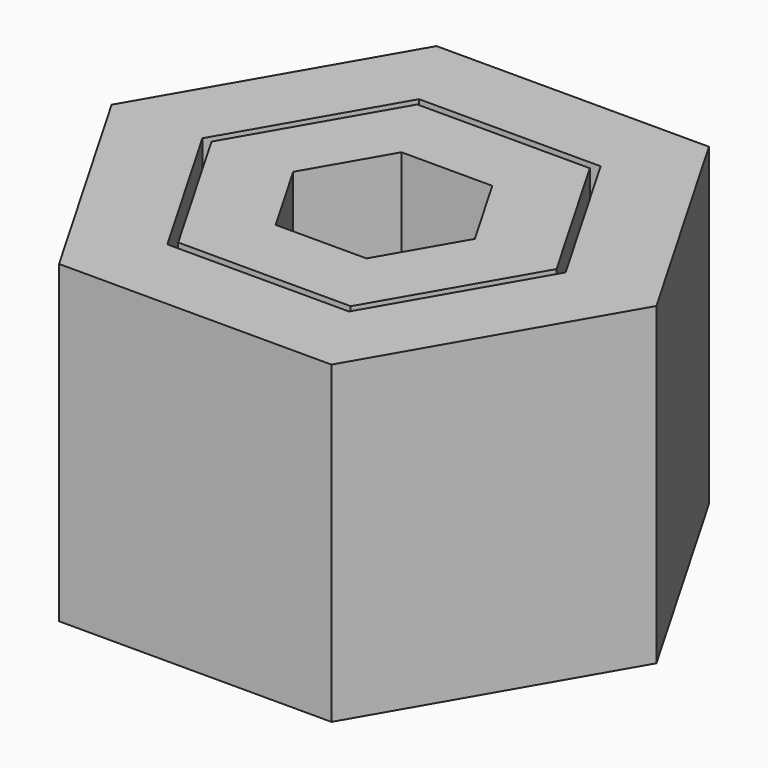
from build123d import *

# Parameters (mm, degrees)
F1_DEPTH = 10


with BuildPart() as f1:
    # F0 (on Top) → F1 (new body)
    with BuildSketch(Plane.XY):
        Polygon((2.7424137787, 4.75), (-2.7424137787, 4.75), (-5.4848275573, 0), (-2.7424137787, -4.75), (2.7424137787, -4.75), (5.4848275573, 0), align=None)
        Polygon((-2.8867513459, 0), (-1.443375673, 2.5), (1.443375673, 2.5), (2.8867513459, 0), (1.443375673, -2.5), (-1.443375673, -2.5), align=None, mode=Mode.SUBTRACT)
    extrude(amount=F1_DEPTH)


with BuildPart() as f1b:
    # F0 (on Top) → F1, piece 2 (new body)
    with BuildSketch(Plane.XY):
        Polygon((4.3301270189, 7.5), (-4.3301270189, 7.5), (-8.6602540378, 0), (-4.3301270189, -7.5), (4.3301270189, -7.5), (8.6602540378, 0), align=None)
        Polygon((-5.7735026919, 0), (-2.8867513459, 5), (2.8867513459, 5), (5.7735026919, 0), (2.8867513459, -5), (-2.8867513459, -5), align=None, mode=Mode.SUBTRACT)
    extrude(amount=F1_DEPTH)


solid = Compound([f1.part, f1b.part])
